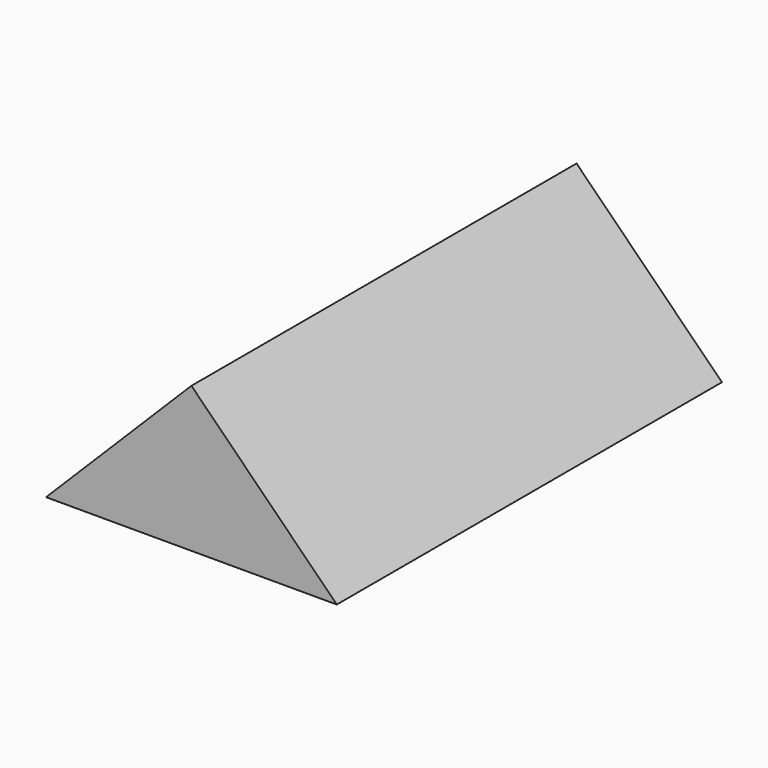
from build123d import *

# Parameters (mm, degrees)
F1_DEPTH = 165.6
F2_T     = -1.8


with BuildPart() as f1:
    # F0 (on Front) → F1 (new body)
    with BuildSketch(Plane.XZ):
        Polygon((50, -25), (0, 25), (-50, -25), align=None)
    extrude(amount=F1_DEPTH)

    # F2
    f2_openings = [f1.faces().sort_by_distance(p)[0] for p in [
        (0, -82.8, -25),
    ]]
    offset(amount=F2_T, openings=f2_openings)


solid = f1.part
